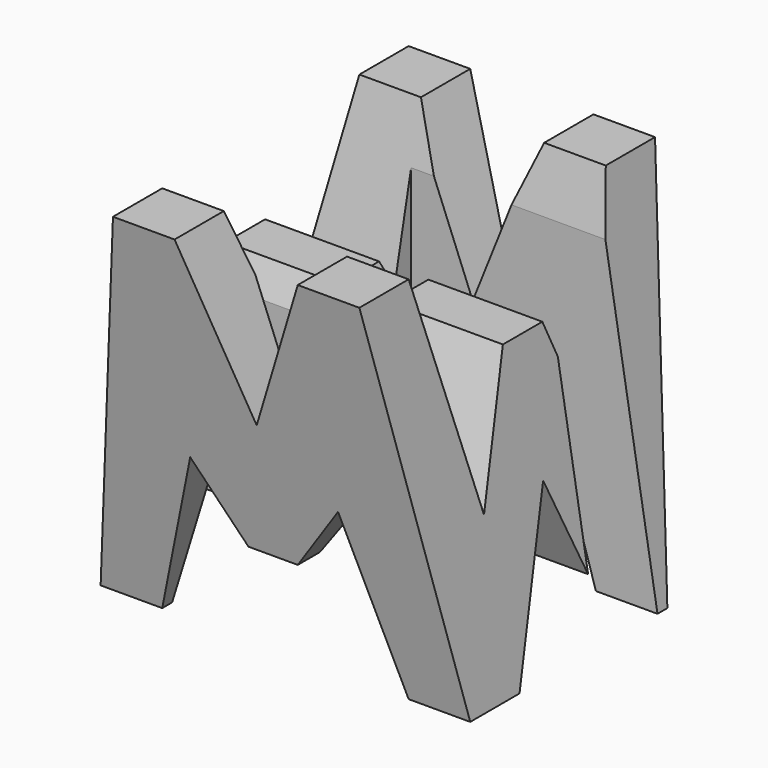
from build123d import *

# Parameters (mm, degrees)
F0_W      = 38.1
F0_H      = 38.1
F1_DEPTH  = 38.1
F6_DEPTH  = 38.1
F8_DEPTH  = 38.1
F9_W      = 25.4
F9_H      = 7.617908
F9_H_2    = 7.62
F10_DEPTH = 38.1


with BuildPart() as f1:
    # F0 (on Front) → F1 (new body)
    with BuildSketch(Plane.XZ):
        with Locations((19.05, 19.05)):
            Rectangle(F0_W, F0_H)
    extrude(amount=F1_DEPTH)

    # F5 (on offset) → F6 (cut)
    with BuildSketch(Plane.YZ.offset(38.1)):
        Polygon((-11.43, 14.589625), (-6.35, 38.1), (-31.75, 38.1), (-26.67, 15.875), (-21.59, 28.575), (-16.51, 28.575), align=None)
        Polygon((-31.75, 0), (-38.1, 38.1), (-38.1, 0), align=None)
        Polygon((-25.4, 0), (-12.7, 0), (-19.05, 15.875), align=None)
        Polygon((-6.35, 0), (0, 0), (0, 38.1), align=None)
    extrude(amount=-F6_DEPTH, mode=Mode.SUBTRACT)

    # F7 (on offset) → F8 (cut)
    with BuildSketch(Plane.XZ.offset(38.1)):
        Polygon((0, 38.1), (0, 0), (6.35, 38.1), align=None)
        Polygon((25.4, 38.1), (12.7, 38.1), (19.05, 22.225), align=None)
        Polygon((11.43, 16.466031), (6.35, 0), (31.75, 0), (26.67, 16.466031), (21.59, 9.525), (16.51, 9.525), align=None)
        Polygon((31.75, 38.1), (38.1, 0), (38.1, 38.1), align=None)
    extrude(amount=-F8_DEPTH, mode=Mode.SUBTRACT)

    # F9 (on offset) → F10 (cut)
    with BuildSketch(Plane.XY.offset(38.1)):
        with Locations((25.4, -11.428954)):
            Rectangle(F9_W, F9_H)
        with Locations((12.7, -26.667908)):
            Rectangle(F9_W, F9_H_2)
    extrude(amount=-F10_DEPTH, mode=Mode.SUBTRACT)


solid = f1.part
